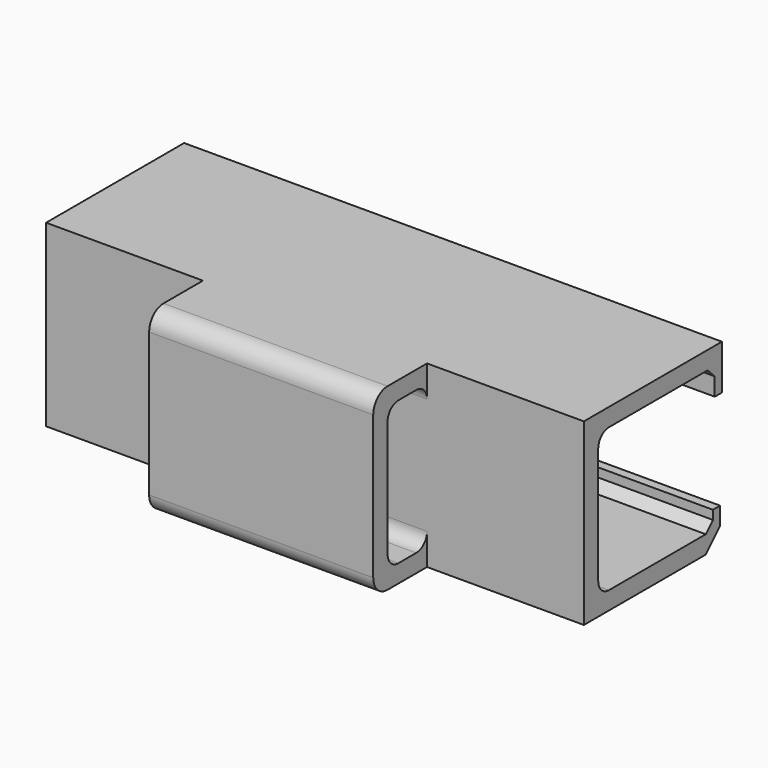
from build123d import *

# Parameters (mm, degrees)
PAD011_DEPTH      = 6
PAD011_DEPTH_BACK = 6
SKETCH019_W       = 4
SKETCH019_H       = 4
POCKET002_DEPTH   = 3.451
PAD012_DEPTH      = 2.5
FILLET004_R       = 0.3


with BuildPart() as part:
    # Sketch018 → Pad011 (new body, two sides)
    with BuildSketch(Plane.YZ) as pad011_sk:
        with BuildLine():
            Line((13.1, -7.9), (13.1, -3.9))
            Line((13.1, -3.9), (16.95, -3.9))
            Line((16.95, -3.9), (16.95, -4.9))
            Line((16.95, -4.9), (16.75, -4.9))
            Line((16.75, -4.9), (16.75, -4.5))
            Line((16.75, -4.5), (16.55, -4.3))
            Line((16.55, -4.3), (13.8, -4.3))
            ThreePointArc((13.8, -4.3), (13.587868, -4.387868), (13.5, -4.6))
            Line((13.5, -4.6), (13.5, -7.2))
            ThreePointArc((13.5, -7.2), (13.587868, -7.412132), (13.8, -7.5))
            Line((13.8, -7.5), (16.5, -7.5))
            Line((16.5, -7.5), (16.7, -7.3))
            Line((16.7, -7.3), (16.7, -7.1))
            Line((16.7, -7.1), (16.9, -7.1))
            Line((16.9, -7.1), (16.9, -7.5))
            Line((16.5, -7.9), (16.9, -7.5))
            Line((16.5, -7.9), (13.1, -7.9))
        make_face()
    extrude(amount=PAD011_DEPTH)
    extrude(pad011_sk.sketch, amount=-PAD011_DEPTH_BACK)

    # Sketch019 (on Face10 of Pad011) → Pocket002 (cut, through all)
    with BuildSketch(Plane.ZX.offset(13.5)):
        with Locations((-7.9, 0)):
            Rectangle(SKETCH019_W, SKETCH019_H)
    extrude(amount=POCKET002_DEPTH, mode=Mode.SUBTRACT)

    # Sketch020 → Pad012 (join, symmetric)
    with BuildSketch(Plane.YZ):
        with BuildLine():
            Line((13.1, -3.9), (12, -3.9))
            ThreePointArc((12, -3.9), (11.717157, -4.017157), (11.6, -4.3))
            Line((11.6, -4.3), (11.6, -7.5))
            ThreePointArc((11.6, -7.5), (11.717157, -7.782843), (12, -7.9))
            Line((12, -7.9), (13.1, -7.9))
            Line((13.1, -7.9), (13.1, -7.5))
            Line((12, -7.5), (13.1, -7.5))
            Line((12, -4.3), (12, -7.5))
            Line((13.1, -4.3), (12, -4.3))
            Line((13.1, -4.3), (13.1, -3.9))
        make_face()
    extrude(amount=PAD012_DEPTH, both=True)

    # Fillet004
    fillet004_edges = [part.edges().sort_by_distance(p)[0] for p in [
        (0, 12, -4.3),
        (0, 12, -7.5),
        (0, 13.1, -7.5),
        (0, 13.1, -4.3),
    ]]
    fillet(fillet004_edges, radius=FILLET004_R)


solid = part.part
